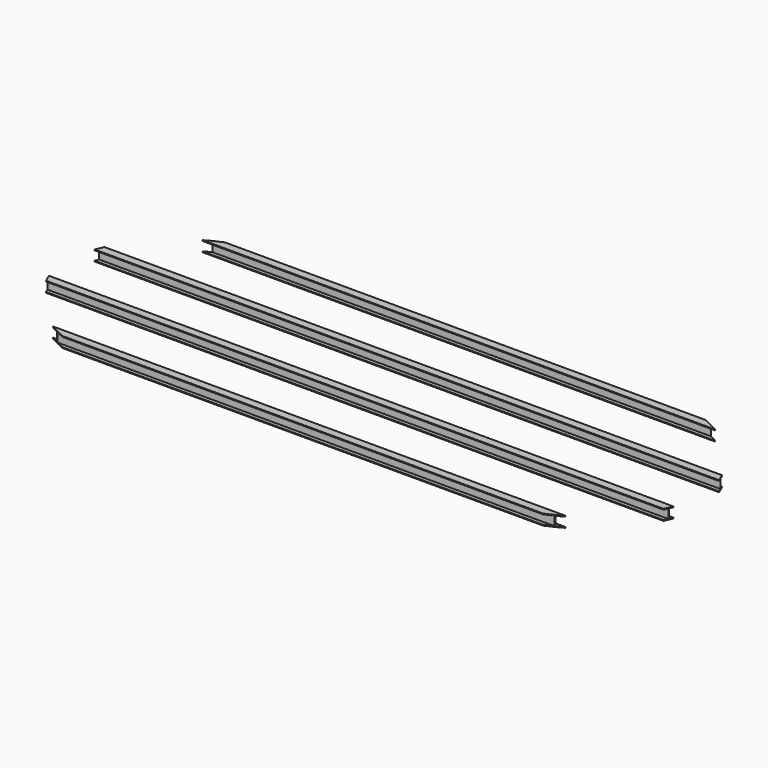
from build123d import *

# Parameters (mm, degrees)
F1_DEPTH      = 3050
F1_DEPTH_BACK = 3050
F2_W          = 8480.280876
F2_H          = 4677.365304
F3_DEPTH      = 155


with BuildPart() as f1:
    # F0 (on Right) → F1 (new body, two sides)
    with BuildSketch(Plane.YZ) as f1_sk:
        Polygon((-890.8, 0), (-967, 0), (-967, -7.37), (-931.06, -7.37), (-931.06, -94.23), (-967, -94.23), (-967, -101.6), (-890.8, -101.6), (-890.8, -94.23), (-926.74, -94.23), (-926.74, -7.37), (-890.8, -7.37), align=None)
        Polygon((-311.793333, -7.37), (-311.793333, -94.23), (-347.733333, -94.23), (-347.733333, -101.6), (-271.533333, -101.6), (-271.533333, -94.23), (-307.473333, -94.23), (-307.473333, -7.37), (-271.533333, -7.37), (-271.533333, 0), (-347.733333, 0), (-347.733333, -7.37), align=None)
        Polygon((307.473333, -7.37), (307.473333, -94.23), (271.533333, -94.23), (271.533333, -101.6), (347.733333, -101.6), (347.733333, -94.23), (311.793333, -94.23), (311.793333, -7.37), (347.733333, -7.37), (347.733333, 0), (271.533333, 0), (271.533333, -7.37), align=None)
        Polygon((926.74, -7.37), (926.74, -94.23), (890.8, -94.23), (890.8, -101.6), (967, -101.6), (967, -94.23), (931.06, -94.23), (931.06, -7.37), (967, -7.37), (967, 0), (890.8, 0), (890.8, -7.37), align=None)
    extrude(amount=F1_DEPTH)
    extrude(f1_sk.sketch, amount=-F1_DEPTH_BACK)

    # F2 (on Top) → F3 (cut)
    with BuildSketch(Plane.XY):
        Rectangle(F2_W, F2_H)
        with BuildLine():
            ThreePointArc((1816.999925, 1060), (2630.001952, 758.572611), (3050, 0))
            ThreePointArc((3050, 0), (2630.001952, -758.572611), (1816.999925, -1060))
            Line((1816.999925, -1060), (-1816.999925, -1060))
            ThreePointArc((-1816.999925, -1060), (-2630.001952, -758.572611), (-3050, 0))
            ThreePointArc((-3050, 0), (-2630.001952, 758.572611), (-1816.999925, 1060))
            Line((-1816.999925, 1060), (1816.999925, 1060))
        make_face(mode=Mode.SUBTRACT)
    extrude(amount=-F3_DEPTH, mode=Mode.SUBTRACT)


solid = f1.part
